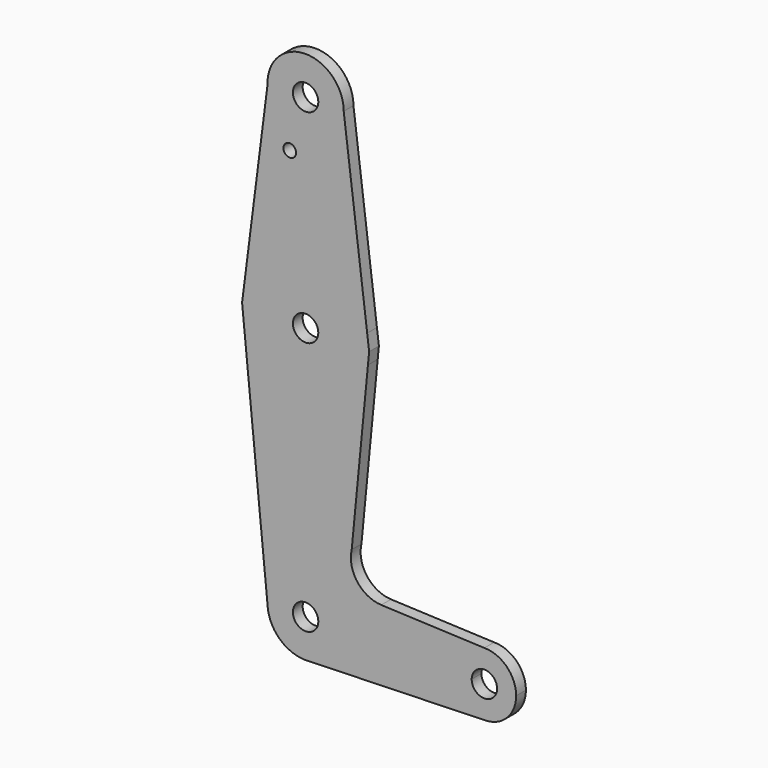
from build123d import *

# Parameters (mm, degrees)
F0_R     = 3.175
F0_R_2   = 1.5875
F1_DEPTH = 3.048


with BuildPart() as f1:
    # F0 (on Front) → F1 (new body)
    with BuildSketch(Plane.XZ):
        with BuildLine():
            ThreePointArc((-54.5690320432, 49.9601624906), (-44.8569535091, 40.8272151147), (-35.5270218964, 50.3502174419))
            ThreePointArc((-35.5270218964, 50.3502174419), (-45.2470902836, 59.8732197692), (-54.5690320432, 49.9601624906))
        make_face()
        with Locations((-45.0520218964, 50.3502174419)):
            Circle(F0_R, mode=Mode.SUBTRACT)
        with BuildLine():
            Line((-29.6654834348, 3.4579097496), (-35.5270218964, 50.3502174419))
            ThreePointArc((-35.5270218964, 50.3502174419), (-44.8569535091, 40.8272151147), (-54.5690320432, 49.9601624906))
            Line((-54.5690320432, 49.9601624906), (-60.5283859773, 3.085437355))
            ThreePointArc((-60.5283859773, 3.085437355), (-45.2435971601, 15.4240614603), (-29.6654834348, 3.4579097496))
        make_face()
        with Locations((-49.0062705313, 37.3476264897)):
            Circle(F0_R_2, mode=Mode.SUBTRACT)
        with BuildLine():
            Line((-29.1770218964, -0.4497825581), (-29.6654834348, 3.4579097496))
            ThreePointArc((-29.6654834348, 3.4579097496), (-45.2435971601, 15.4240614603), (-60.5283859773, 3.085437355))
            Line((-60.5283859773, 3.085437355), (-60.9206488266, 0))
            Line((-60.9206488266, 0), (-60.5265558896, -3.9930046357))
            ThreePointArc((-60.5265558896, -3.9930046357), (-44.797910191, -16.3227486401), (-29.4719993973, -3.4958495187))
            Line((-29.4719993973, -3.4958495187), (-29.1770218964, -0.4497825581))
        make_face()
        with Locations((-45.0520218964, -0.4497825581)):
            Circle(F0_R, mode=Mode.SUBTRACT)
        with BuildLine():
            Line((-33.5326419553, -45.4278243156), (-29.4719993973, -3.4958495187))
            ThreePointArc((-29.4719993973, -3.4958495187), (-44.797910191, -16.3227486401), (-60.5265558896, -3.9930046357))
            Line((-60.5265558896, -3.9930046357), (-54.567868844, -64.3672533595))
            ThreePointArc((-54.567868844, -64.3672533595), (-45.2608074612, -54.4270710961), (-35.5270218964, -63.9497825581))
            ThreePointArc((-35.5270218964, -63.9497825581), (-35.527062789, -63.9776931852), (-35.5271854666, -64.0056035727))
            Line((-35.5271854666, -64.0056035727), (-8.3134834915, -64.1650915039))
            ThreePointArc((-8.3134834915, -64.1650915039), (-5.9727726298, -58.5816664582), (-0.376112126, -56.2727806264))
            Line((-0.376112126, -56.2727806264), (-26.1511881536, -55.2011433613))
            ThreePointArc((-26.1511881536, -55.2011433613), (-32.1402627142, -52.0503472633), (-33.5326419553, -45.4278243156))
        make_face()
        with BuildLine():
            ThreePointArc((-35.5270218964, -63.9497825581), (-45.2608074612, -54.4270710961), (-54.567868844, -64.3672533595))
            ThreePointArc((-54.567868844, -64.3672533595), (-51.6969254502, -70.7740687303), (-45.2159255518, -73.4733722485))
            Line((-45.2159255518, -73.4733722485), (-44.3272677928, -73.4471693823))
            ThreePointArc((-44.3272677928, -73.4471693823), (-38.0842878487, -70.4441114103), (-35.5271854666, -64.0056035727))
            ThreePointArc((-35.5271854666, -64.0056035727), (-35.527062789, -63.9776931852), (-35.5270218964, -63.9497825581))
        make_face()
        with BuildLine():
            ThreePointArc((-41.8770218964, -63.9497825581), (-41.8770355273, -63.9590861005), (-41.8770764198, -63.968389563))
            ThreePointArc((-41.8770764198, -63.968389563), (-48.2270082655, -63.9404790157), (-41.8770218964, -63.9497825581))
        make_face(mode=Mode.SUBTRACT)
        with BuildLine():
            Line((-8.3134834915, -64.1650915039), (-35.5271854666, -64.0056035727))
            ThreePointArc((-35.5271854666, -64.0056035727), (-38.0842878487, -70.4441114103), (-44.3272677928, -73.4471693823))
            Line((-44.3272677928, -73.4471693823), (-0.1421695699, -72.1443323739))
            ThreePointArc((-0.1421695699, -72.1443323739), (-5.9216305933, -69.8892885662), (-8.3134834915, -64.1650915039))
        make_face()
        with BuildLine():
            ThreePointArc((7.561387874, -64.2102806264), (5.2365479496, -58.5976205508), (-0.376112126, -56.2727806264))
            ThreePointArc((-0.376112126, -56.2727806264), (-5.9727726298, -58.5816664582), (-8.3134834915, -64.1650915039))
            ThreePointArc((-8.3134834915, -64.1650915039), (-5.9216305933, -69.8892885662), (-0.1421695699, -72.1443323739))
            ThreePointArc((-0.1421695699, -72.1443323739), (5.3186585142, -69.73961093), (7.561387874, -64.2102806264))
        make_face()
        with BuildLine():
            ThreePointArc((2.798887874, -64.2102806264), (-0.3847514651, -67.3852688724), (-3.5510651098, -64.1930020122))
            ThreePointArc((-3.5510651098, -64.1930020122), (-0.3674727869, -61.0352923805), (2.798887874, -64.2102806264))
        make_face(mode=Mode.SUBTRACT)
    extrude(amount=F1_DEPTH)


solid = f1.part
